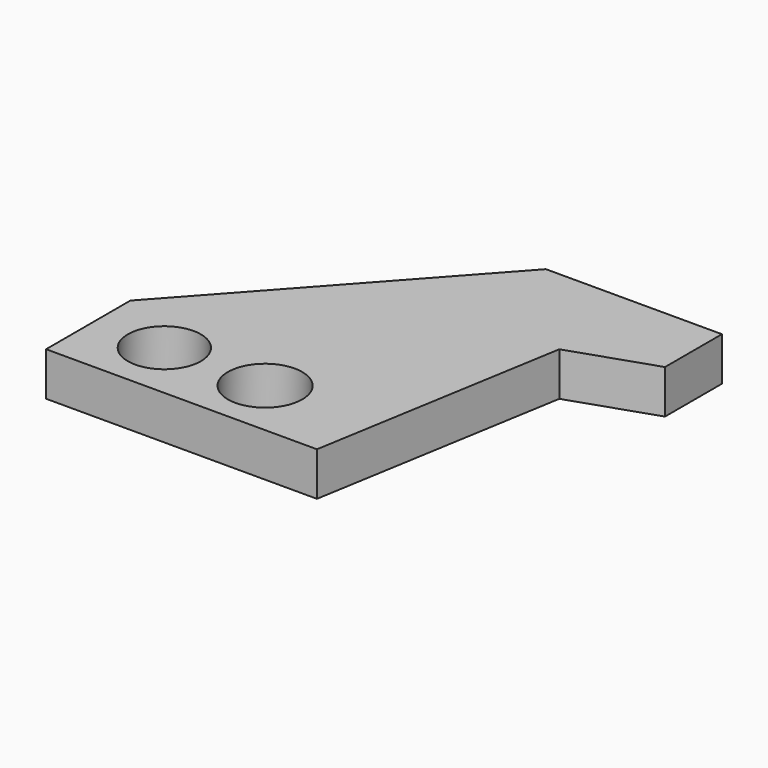
from build123d import *

# Parameters (mm, degrees)
F0_R     = 2.65378
F0_R_2   = 2.705133
F1_DEPTH = 3.175


with BuildPart() as f1:
    # F0 (on Top) → F1 (new body)
    with BuildSketch(Plane.XY):
        Polygon((0, 7.664707), (0, 0), (19.709434, 0), (22.774175, 18.209429), (28.829604, 20.252014), (28.829604, 25.431277), (16.022975, 25.431277), align=None)
        with Locations((5.134751, 4.33671)):
            Circle(F0_R, mode=Mode.SUBTRACT)
        with Locations((12.520132, 4.268356)):
            Circle(F0_R_2, mode=Mode.SUBTRACT)
    extrude(amount=F1_DEPTH)


solid = f1.part
